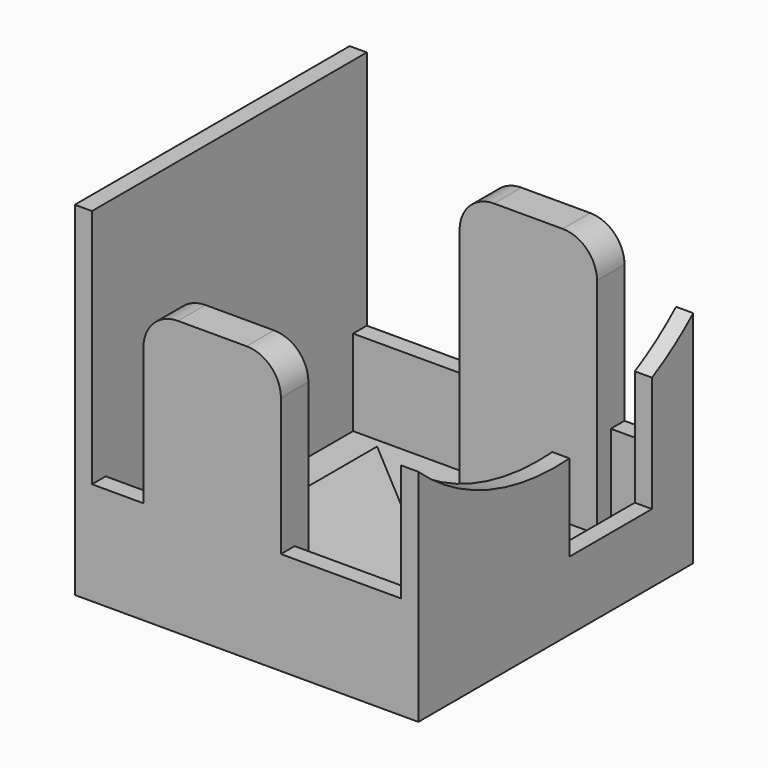
from build123d import *

# Parameters (mm, degrees)
F0_W      = 100
F0_H      = 100
F1_DEPTH  = 5
F2_W      = 5
F2_H      = 100
F3_DEPTH  = 95
F5_DEPTH  = 5
F7_DEPTH  = 5
F9_DEPTH  = 5
F11_DEPTH = 5
F12_W     = 40
F12_H     = 5
F13_DEPTH = 75
F14_W     = 40
F14_H     = 5
F15_DEPTH = 75
F16_R     = 10


with BuildPart() as f1:
    # F0 (on Top) → F1 (new body)
    with BuildSketch(Plane.XY):
        with Locations((50, 50)):
            Rectangle(F0_W, F0_H)
    extrude(amount=F1_DEPTH)

    # F2 (on face) → F3 (join)
    with BuildSketch(Plane.XY.offset(5)):
        with Locations((2.5, 50)):
            Rectangle(F2_W, F2_H)
    extrude(amount=F3_DEPTH)

    # F4 (on face) → F5 (join)
    with BuildSketch(Plane.XY.offset(5)):
        Polygon((90, 25), (20, 85), (20, 25), align=None)
    extrude(amount=F5_DEPTH)

    # F6 (on face) → F7 (join)
    with BuildSketch(Plane.YZ.offset(100)):
        with BuildLine():
            Line((0, 64.098301), (0, 5))
            Line((0, 5), (100, 5))
            Line((100, 5), (100, 64.098301))
            ThreePointArc((100, 64.098301), (92.818809, 58.42444), (85, 53.667504))
            Line((85, 53.667504), (85, 20))
            Line((85, 20), (55, 20))
            Line((55, 20), (55, 45.166852))
            ThreePointArc((55, 45.166852), (25.589962, 49.083499), (0, 64.098301))
        make_face()
    extrude(amount=-F7_DEPTH)

    # F8 (on face) → F9 (join)
    with BuildSketch(Plane.XZ):
        Polygon((5, 30), (5, 5), (95, 5), (95, 30), (60, 30), (60, 80), (20, 80), (20, 30), align=None)
    extrude(amount=-F9_DEPTH)

    # F10 (on face) → F11 (join)
    with BuildSketch(Plane(origin=(0, 100, 0), x_dir=(-1, 0, 0), z_dir=(0, 1, 0))):
        Polygon((-95, 5), (-5, 5), (-5, 30), (-40, 30), (-40, 80), (-80, 80), (-80, 30), (-95, 30), align=None)
    extrude(amount=-F11_DEPTH)

    # F12 (on face) → F13 (join, through all)
    with BuildSketch(Plane.XY.offset(80)):
        with Locations((40, 7.5)):
            Rectangle(F12_W, F12_H)
    extrude(amount=-F13_DEPTH)

    # F14 (on face) → F15 (join, through all)
    with BuildSketch(Plane.XY.offset(80)):
        with Locations((60, 92.5)):
            Rectangle(F14_W, F14_H)
    extrude(amount=-F15_DEPTH)

    # F16
    f16_edges = [f1.edges().sort_by_distance(p)[0] for p in [
        (60, 5, 80),
        (20, 5, 80),
        (80, 95, 80),
        (40, 95, 80),
    ]]
    fillet(f16_edges, radius=F16_R)


solid = f1.part
